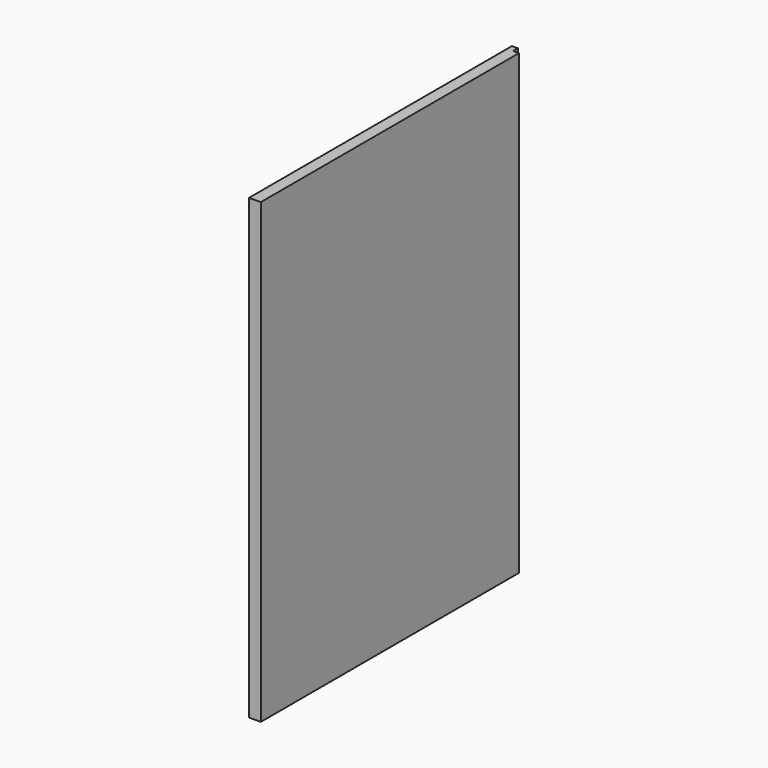
from build123d import *

# Parameters (mm, degrees)
F0_W     = 533.4
F0_H     = 742.95
F1_DEPTH = 19.05
F2_W     = 9.525
F2_H     = 9.525
F3_DEPTH = 742.95


with BuildPart() as f1:
    # F0 (on Right) → F1 (new body)
    with BuildSketch(Plane.YZ):
        Rectangle(F0_W, F0_H)
    extrude(amount=F1_DEPTH)

    # F2 (on face) → F3 (cut, through all)
    with BuildSketch(Plane.XY.offset(371.475)):
        with Locations((14.2875, 261.9375)):
            Rectangle(F2_W, F2_H)
    extrude(amount=-F3_DEPTH, mode=Mode.SUBTRACT)


solid = f1.part
